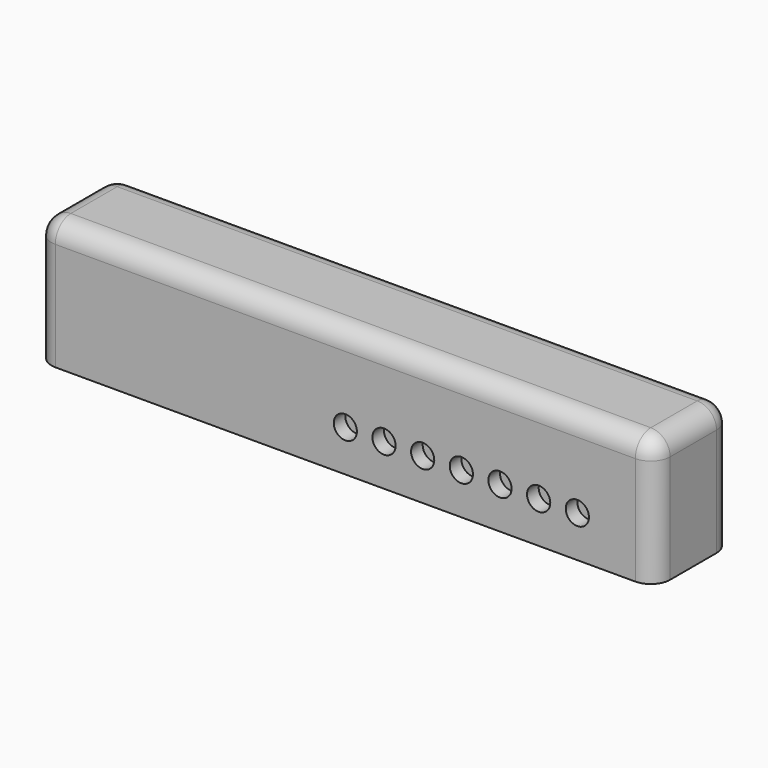
from build123d import *

# Parameters (mm, degrees)
CYLINDER005_R     = 1.2
CYLINDER005_DEPTH = 1.8
ARRAY007_X_COUNT  = 7
ARRAY007_X_PITCH  = 4
BOX015_W          = 64
BOX015_H          = 10
BOX015_DEPTH      = 13.2
FILLET006_R       = 2


with BuildPart() as array007:
    # Cylinder005 → Cylinder005 (new body)
    with BuildSketch(Plane(origin=(0, -73.5, 2.9), x_dir=(1, 0, 0), z_dir=(0, -1, 0))):
        Circle(CYLINDER005_R)
    extrude(amount=CYLINDER005_DEPTH)

    # Array007 X: Array007 ×7


with BuildPart() as array007_1:
    add(array007.part)
    with Locations(*[(i * ARRAY007_X_PITCH, 0, 0) for i in range(1, ARRAY007_X_COUNT)]):
        add(array007.part)


with BuildPart() as seitenteil:
    # Box015 → Box015 (new body)
    with BuildSketch(Plane(origin=(-32, -75, -1.4), x_dir=(1, 0, 0), z_dir=(0, 0, 1))):
        with Locations((32, 5)):
            Rectangle(BOX015_W, BOX015_H)
    extrude(amount=BOX015_DEPTH)

    # Fillet006
    fillet006_edges = [seitenteil.edges().sort_by_distance(p)[0] for p in [
        (-32, -75, 5.2),
        (-32, -70, 11.8),
        (-32, -65, 5.2),
        (32, -75, 5.2),
        (32, -70, 11.8),
        (32, -65, 5.2),
        (0, -75, 11.8),
        (0, -65, 11.8),
    ]]
    fillet(fillet006_edges, radius=FILLET006_R)

    # Cut010: cut Array007
    add(array007_1.part, mode=Mode.SUBTRACT)


solid = seitenteil.part
